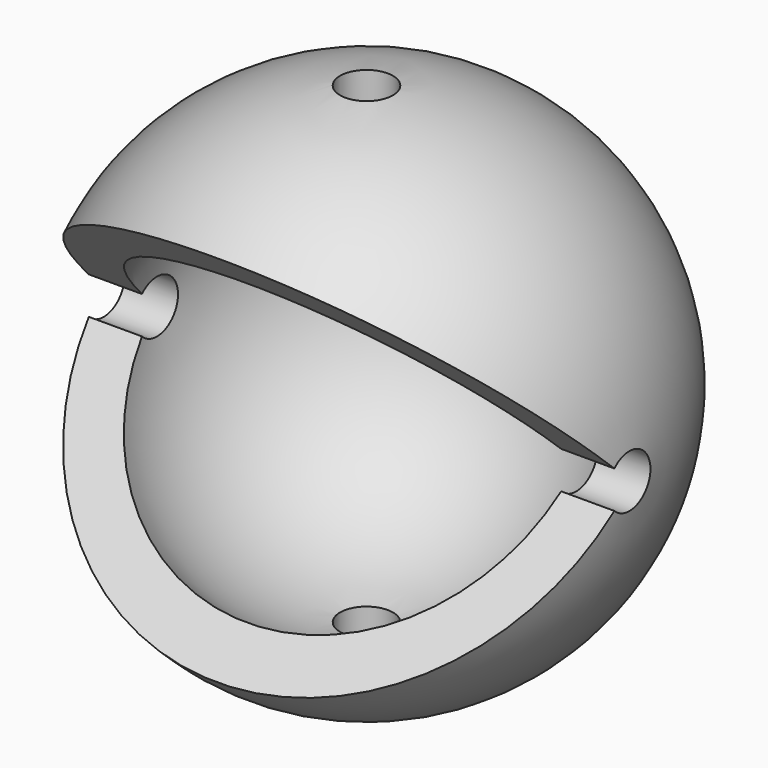
from build123d import *

# Parameters (mm, degrees)
F1_ANGLE = 270
F14_T    = -3
F3_D     = 3
F5_D     = 3
F7_ANGLE = 135
F9_D     = 3
F11_D    = 3
F13_D    = 3


with BuildPart() as f1:
    # F0 (on Top) → F1 (revolve)
    with BuildSketch(Plane.XY):
        with BuildLine():
            ThreePointArc((15, 0), (0, 15), (-15, 0))
            Line((-15, 0), (15, 0))
        make_face()
    revolve(axis=Axis((0.571103, 0, 0), (1, 0, 0)), revolution_arc=F1_ANGLE)

    # F14
    f14_openings = [f1.faces().sort_by_distance(p)[0] for p in [
        (0, 6.366198, 0),
        (0, 0, -6.366198),
    ]]
    offset(amount=F14_T, openings=f14_openings)

    # F3 (through all)
    with Locations(Plane.YZ):
        with Locations((0, 0)):
            Hole(F3_D / 2)

    # F5 (through all)
    with Locations(Plane(origin=(0, 0, 0), x_dir=(0, 1, 0), z_dir=(-1, 0, 0))):
        with Locations((0, 0)):
            Hole(F5_D / 2)


with BuildPart() as f1_1:
    # F7: moved
    add(f1.part.rotate(Axis((0, 0, 0), (-1, 0, 0)), F7_ANGLE))

    # F9 (through all)
    with Locations(Plane.XZ):
        with Locations((0, 0)):
            Hole(F9_D / 2)

    # F11 (through all)
    with Locations(Plane.XY):
        with Locations((0, 0)):
            Hole(F11_D / 2)

    # F13 (through all)
    with Locations(Plane(origin=(0, 0, 0), x_dir=(1, 0, 0), z_dir=(0, 0, -1))):
        with Locations((0, 0)):
            Hole(F13_D / 2)


solid = f1_1.part
